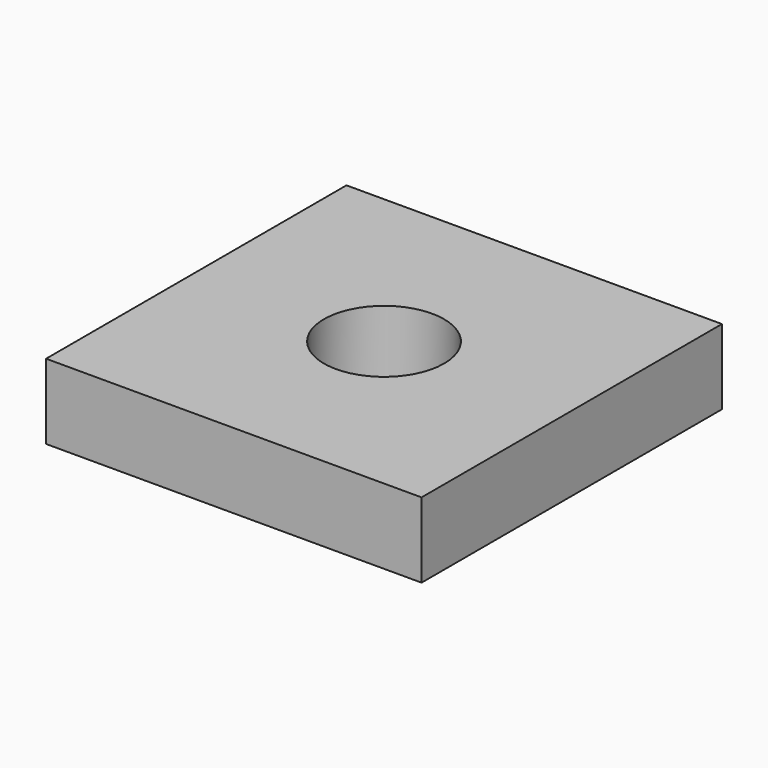
from build123d import *

# Parameters (mm, degrees)
CYLINDER_R     = 1.6
CYLINDER_DEPTH = 10
BOX_W          = 10
BOX_H          = 10
BOX_DEPTH      = 2


with BuildPart() as cylinder:
    # Cylinder → Cylinder (new body)
    with BuildSketch(Plane(origin=(5, 5, -4), x_dir=(1, 0, 0), z_dir=(0, 0, 1))):
        Circle(CYLINDER_R)
    extrude(amount=CYLINDER_DEPTH)


with BuildPart() as cut:
    # Box → Box (new body)
    with BuildSketch(Plane.XY):
        with Locations((5, 5)):
            Rectangle(BOX_W, BOX_H)
    extrude(amount=BOX_DEPTH)

    # Cut: cut Cylinder
    add(cylinder.part, mode=Mode.SUBTRACT)


solid = cut.part
